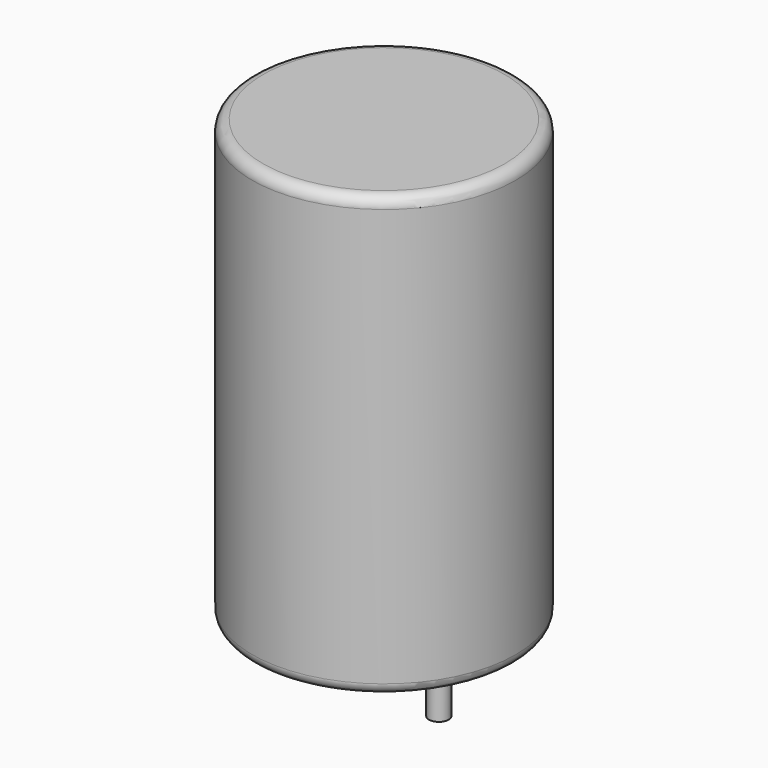
from build123d import *

# Parameters (mm, degrees)
SKETCH001_R       = 0.45
PAD001_DEPTH      = 10
PAD001_DEPTH_BACK = 3.5
SKETCH_R          = 6
PAD_DEPTH         = 20
FILLET_R          = 0.5


with BuildPart() as pad001:
    # Sketch001 → Pad001 (new body, two sides)
    with BuildSketch(Plane.XY.offset(0.5)) as pad001_sk:
        Circle(SKETCH001_R)
        with Locations((5, 0)):
            Circle(SKETCH001_R)
    extrude(amount=PAD001_DEPTH)
    extrude(pad001_sk.sketch, amount=-PAD001_DEPTH_BACK)


with BuildPart() as obj1:
    # Sketch → Pad (new body)
    with BuildSketch(Plane.XY.offset(0.1)):
        with Locations((2.5, 0)):
            Circle(SKETCH_R)
    extrude(amount=PAD_DEPTH)

    # Fillet
    fillet_edges = [obj1.edges().sort_by_distance(p)[0] for p in [
        (-3.5, 0, 0.1),
        (-3.5, 0, 20.1),
    ]]
    fillet(fillet_edges, radius=FILLET_R)

    # obj1: union Pad001
    add(pad001.part)


solid = obj1.part
